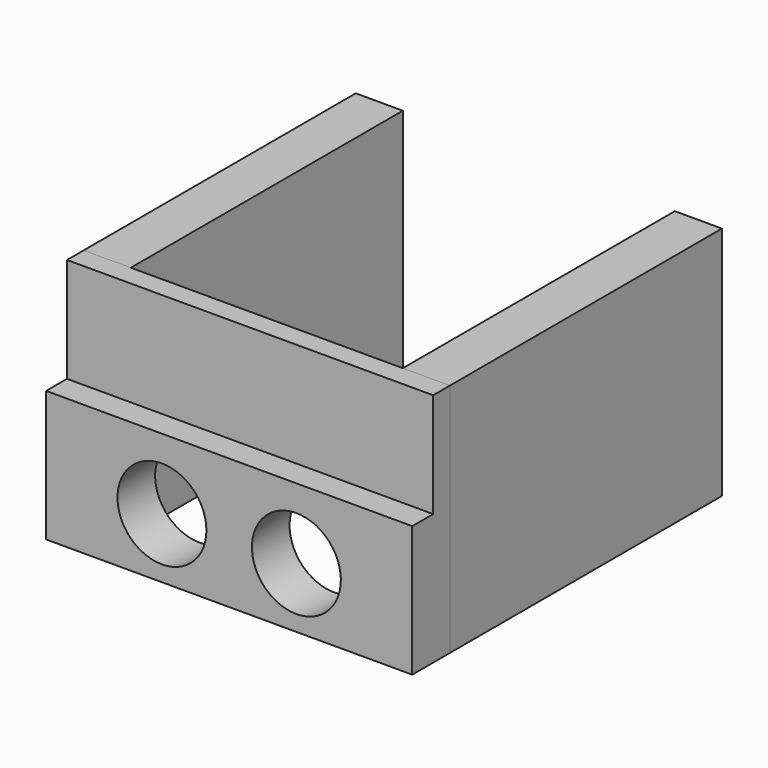
from build123d import *

# Parameters (mm, degrees)
F0_W     = 70
F0_H     = 45
F0_R     = 8.5
F1_DEPTH = 9
F2_W     = 70
F2_H     = 20
F3_DEPTH = 5
F4_W     = 65
F4_H     = 45
F5_DEPTH = 9


with BuildPart() as f1:
    # F0 (on Front) → F1 (new body)
    with BuildSketch(Plane.XZ):
        with Locations((0, 11)):
            Rectangle(F0_W, F0_H)
        with Locations((-12.85, 0)):
            Circle(F0_R, mode=Mode.SUBTRACT)
        with Locations((12.85, 0)):
            Circle(F0_R, mode=Mode.SUBTRACT)
    extrude(amount=F1_DEPTH)

    # F2 (on face) → F3 (cut)
    with BuildSketch(Plane.XZ.offset(9)):
        with Locations((0, 23.5)):
            Rectangle(F2_W, F2_H)
    extrude(amount=-F3_DEPTH, mode=Mode.SUBTRACT)


with BuildPart() as f5:
    # F4 (on face) → F5 (new body)
    with BuildSketch(Plane.YZ.offset(35)):
        with Locations((32.5, 11)):
            Rectangle(F4_W, F4_H)
    extrude(amount=-F5_DEPTH)


with BuildPart() as f6_1:
    # F6: instance of F5
    add(f5.part.mirror(Plane.YZ))


solid = Compound([f1.part, f5.part, f6_1.part])
